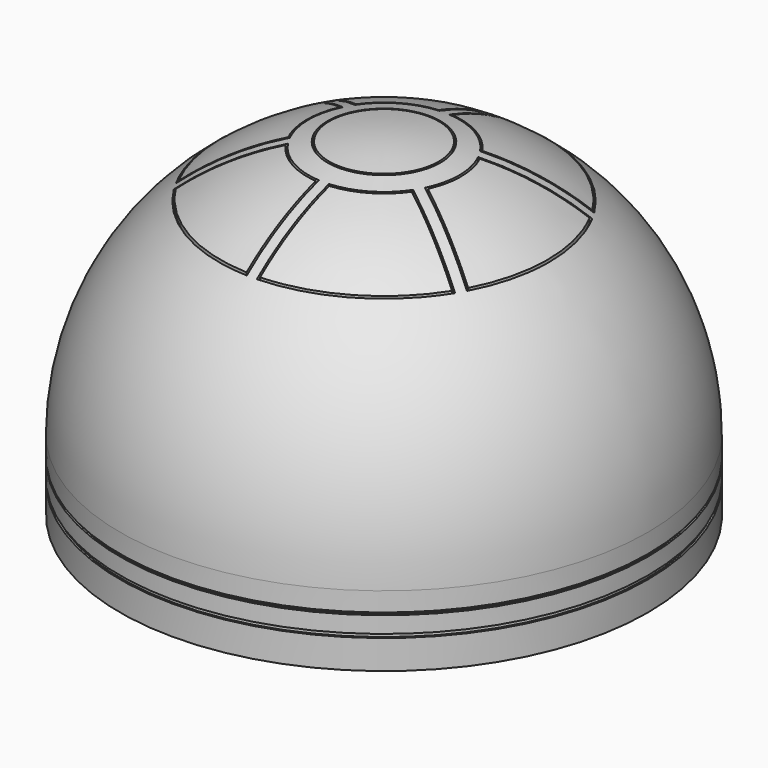
from build123d import *

# Parameters (mm, degrees)
F2_W          = 1.5875
F2_H          = 3.175
F2_H_2        = 2.1336
F5_T          = -3.175
F4_R          = 49.3395
F4_R_2        = 47.752
F6_DEPTH      = 230.633
F6_DEPTH_BACK = 61.723


with BuildPart() as f1:
    # F0 (on Front) → F1 (revolve)
    with BuildSketch(Plane.XZ):
        with BuildLine():
            Line((0, 230.632), (0, 0))
            Line((0, 0), (0, -61.722))
            Line((0, -61.722), (230.632, -61.722))
            Line((230.632, -61.722), (230.632, 0))
            ThreePointArc((230.632, 0), (163.0814511586, 163.0814511586), (0, 230.632))
        make_face()
    revolve(axis=Axis((0, 0, 115.316), (0, 0, 1)))

    # F2 (on Front) → F3 (revolve, cut)
    with BuildSketch(Plane.XZ):
        with Locations((229.83825, -34.7345)):
            Rectangle(F2_W, F2_H)
        with Locations((229.83825, -17.7038)):
            Rectangle(F2_W, F2_H_2)
    revolve(axis=Axis((0, 0, -30.861), (0, 0, -1)), mode=Mode.SUBTRACT)

    # F5
    f5_openings = [f1.faces().sort_by_distance(p)[0] for p in [
        (0, 0, -61.722),
    ]]
    offset(amount=F5_T, openings=f5_openings, kind=Kind.INTERSECTION)

    # F4 (on Top) → F6 (cut, two sides)
    with BuildSketch(Plane.XY) as f6_sk:
        with BuildLine():
            ThreePointArc((-59.0474052985, -29.0610443288), (-65.8114, 0), (-59.0474052985, 29.0610443288))
            Line((-59.0474052985, 29.0610443288), (-127.2293543686, 68.4259109783))
            ThreePointArc((-127.2293543686, 68.4259109783), (-144.4625, 0), (-127.2293543686, -68.4259109783))
            Line((-127.2293543686, -68.4259109783), (-59.0474052985, -29.0610443288))
        make_face()
        with BuildLine():
            ThreePointArc((-126.5980691867, -66.2283512039), (-142.875, 0), (-126.5980691867, 66.2283512039))
            Line((-126.5980691867, 66.2283512039), (-61.113557844, 28.4208509524))
            ThreePointArc((-61.113557844, 28.4208509524), (-67.3989, 0), (-61.113557844, -28.4208509524))
            Line((-61.113557844, -28.4208509524), (-126.5980691867, -66.2283512039))
        make_face(mode=Mode.SUBTRACT)
        with BuildLine():
            ThreePointArc((-54.6913052985, 36.6060308516), (-32.9057, 56.9943442586), (-4.3561, 65.6670751804))
            Line((-4.3561, 65.6670751804), (-4.3561, 144.3968084794))
            ThreePointArc((-4.3561, 144.3968084794), (-72.23125, 125.1081948942), (-122.8732543686, 75.9708975011))
            Line((-122.8732543686, 75.9708975011), (-54.6913052985, 36.6060308516))
        make_face()
        with BuildLine():
            ThreePointArc((-120.6544691867, 76.5229683838), (-71.4375, 123.7333795657), (-5.9436, 142.7513195877))
            Line((-5.9436, 142.7513195877), (-5.9436, 67.1363190848))
            ThreePointArc((-5.9436, 67.1363190848), (-33.69945, 58.3691595871), (-55.169957844, 38.7154681323))
            Line((-55.169957844, 38.7154681323), (-120.6544691867, 76.5229683838))
        make_face(mode=Mode.SUBTRACT)
        Circle(F4_R)
        Circle(F4_R_2, mode=Mode.SUBTRACT)
        with BuildLine():
            ThreePointArc((4.3561, 65.6670751804), (32.9057, 56.9943442586), (54.6913052985, 36.6060308516))
            Line((54.6913052985, 36.6060308516), (122.8732543686, 75.9708975011))
            ThreePointArc((122.8732543686, 75.9708975011), (72.23125, 125.1081948942), (4.3561, 144.3968084794))
            Line((4.3561, 144.3968084794), (4.3561, 65.6670751804))
        make_face()
        with BuildLine():
            ThreePointArc((5.9436, 142.7513195877), (71.4375, 123.7333795657), (120.6544691867, 76.5229683838))
            Line((120.6544691867, 76.5229683838), (55.169957844, 38.7154681323))
            ThreePointArc((55.169957844, 38.7154681323), (33.69945, 58.3691595871), (5.9436, 67.1363190848))
            Line((5.9436, 67.1363190848), (5.9436, 142.7513195877))
        make_face(mode=Mode.SUBTRACT)
        with BuildLine():
            ThreePointArc((59.0474052985, 29.0610443288), (65.8114, 0), (59.0474052985, -29.0610443288))
            Line((59.0474052985, -29.0610443288), (127.2293543686, -68.4259109783))
            ThreePointArc((127.2293543686, -68.4259109783), (144.4625, 0), (127.2293543686, 68.4259109783))
            Line((127.2293543686, 68.4259109783), (59.0474052985, 29.0610443288))
        make_face()
        with BuildLine():
            ThreePointArc((126.5980691867, 66.2283512039), (142.875, 0), (126.5980691867, -66.2283512039))
            Line((126.5980691867, -66.2283512039), (61.113557844, -28.4208509524))
            ThreePointArc((61.113557844, -28.4208509524), (67.3989, 0), (61.113557844, 28.4208509524))
            Line((61.113557844, 28.4208509524), (126.5980691867, 66.2283512039))
        make_face(mode=Mode.SUBTRACT)
        with BuildLine():
            Line((4.3561, -65.6670751804), (4.3561, -144.3968084794))
            ThreePointArc((4.3561, -144.3968084794), (72.23125, -125.1081948942), (122.8732543686, -75.9708975011))
            Line((122.8732543686, -75.9708975011), (54.6913052985, -36.6060308516))
            ThreePointArc((54.6913052985, -36.6060308516), (32.9057, -56.9943442586), (4.3561, -65.6670751804))
        make_face()
        with BuildLine():
            Line((5.9436, -142.7513195877), (5.9436, -67.1363190848))
            ThreePointArc((5.9436, -67.1363190848), (33.69945, -58.3691595871), (55.169957844, -38.7154681323))
            Line((55.169957844, -38.7154681323), (120.6544691867, -76.5229683838))
            ThreePointArc((120.6544691867, -76.5229683838), (71.4375, -123.7333795657), (5.9436, -142.7513195877))
        make_face(mode=Mode.SUBTRACT)
        with BuildLine():
            ThreePointArc((-4.3561, -65.6670751804), (-32.9057, -56.9943442586), (-54.6913052985, -36.6060308516))
            Line((-54.6913052985, -36.6060308516), (-122.8732543686, -75.9708975011))
            ThreePointArc((-122.8732543686, -75.9708975011), (-72.23125, -125.1081948942), (-4.3561, -144.3968084794))
            Line((-4.3561, -144.3968084794), (-4.3561, -65.6670751804))
        make_face()
        with BuildLine():
            ThreePointArc((-5.9436, -142.7513195877), (-71.4375, -123.7333795657), (-120.6544691867, -76.5229683838))
            Line((-120.6544691867, -76.5229683838), (-55.169957844, -38.7154681323))
            ThreePointArc((-55.169957844, -38.7154681323), (-33.69945, -58.3691595871), (-5.9436, -67.1363190848))
            Line((-5.9436, -67.1363190848), (-5.9436, -142.7513195877))
        make_face(mode=Mode.SUBTRACT)
    extrude(amount=F6_DEPTH, mode=Mode.SUBTRACT)
    extrude(f6_sk.sketch, amount=-F6_DEPTH_BACK, mode=Mode.SUBTRACT)


solid = f1.part
